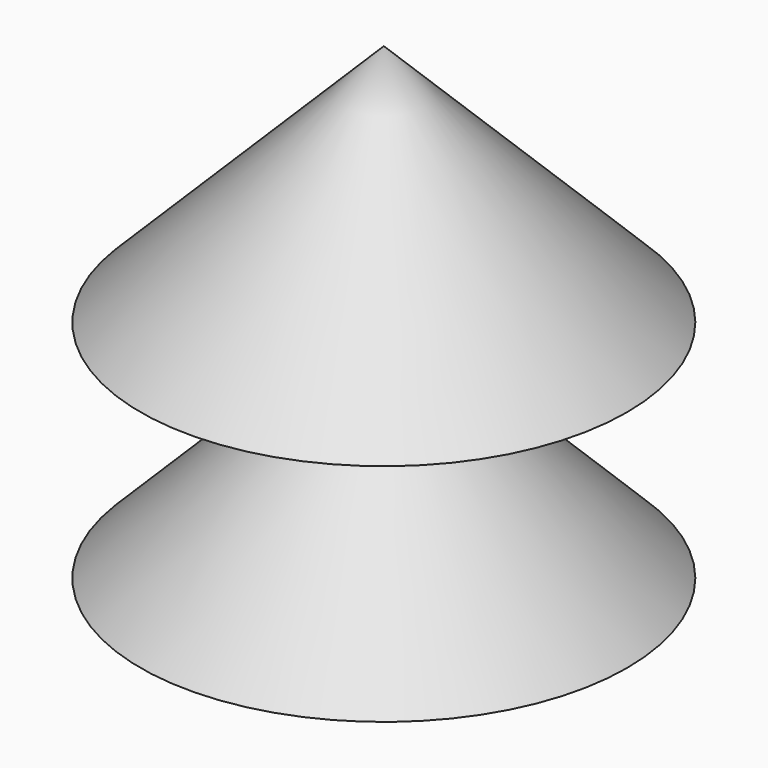
from build123d import *

# Parameters (mm, degrees)
F0_R     = 27.4446603643
F1_DEPTH = 30
F1_TAPER = 45
F3_R     = 27.4446603643
F4_DEPTH = 30
F4_TAPER = 45


with BuildPart() as f1:
    # F0 (on Top) → F1 (new body)
    with BuildSketch(Plane.XY):
        Circle(F0_R)
    extrude(amount=F1_DEPTH, taper=F1_TAPER)

    # F3 (on offset) → F4 (join)
    with BuildSketch(Plane.XY.offset(25.4)):
        Circle(F3_R)
    extrude(amount=F4_DEPTH, taper=F4_TAPER)


solid = f1.part
